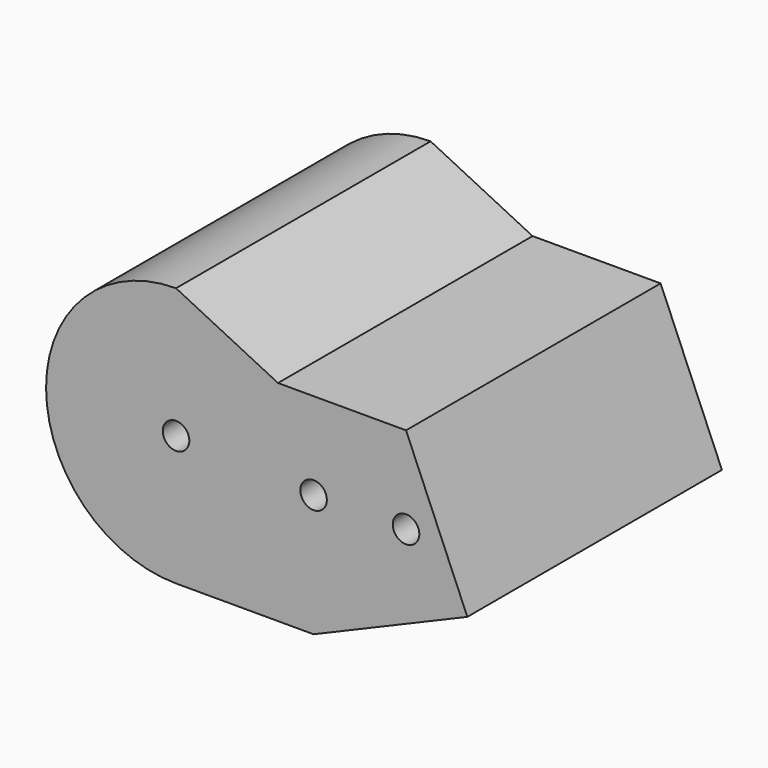
from build123d import *

# Parameters (mm, degrees)
F1_DEPTH = 76.2
F3_D     = 6.35


with BuildPart() as f1:
    # F0 (on Front) → F1 (new body)
    with BuildSketch(Plane.XZ):
        with BuildLine():
            Line((24.416897, 50.195754), (0, 62.235206))
            ThreePointArc((0, 62.235206), (-31.117603, 31.117603), (0, 0))
            Line((0, 0), (32.941068, 0))
            Line((32.941068, 0), (69.759652, 15.642613))
            Line((69.759652, 15.642613), (55.079527, 50.195754))
            Line((55.079527, 50.195754), (24.416897, 50.195754))
        make_face()
    extrude(amount=F1_DEPTH)

    # F3 (through all)
    with Locations(Plane.XZ.offset(76.2)):
        with Locations((32.941068, 29.335953), (55.079527, 29.335953), (0, 31.117603)):
            Hole(F3_D / 2)


solid = f1.part
